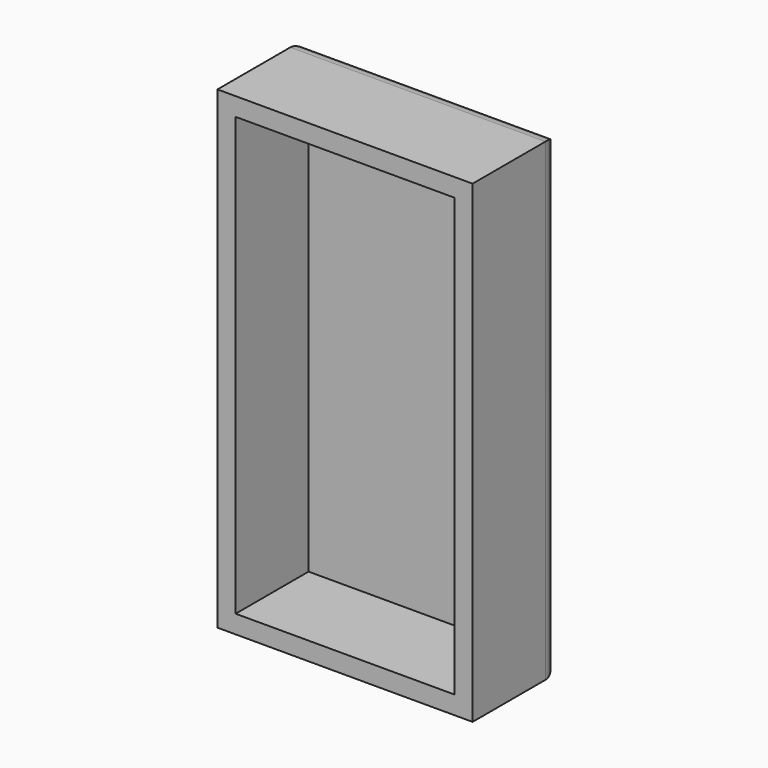
from build123d import *

# Parameters (mm, degrees)
F0_W     = 35
F0_H     = 65
F1_DEPTH = 15
F2_T     = -2.5
F3_R     = 2.5


with BuildPart() as f1:
    # F0 (on Front) → F1 (new body)
    with BuildSketch(Plane.XZ):
        with Locations((17.5, 32.5)):
            Rectangle(F0_W, F0_H)
    extrude(amount=F1_DEPTH)

    # F2
    f2_openings = [f1.faces().sort_by_distance(p)[0] for p in [
        (17.5, -15, 32.5),
    ]]
    offset(amount=F2_T, openings=f2_openings)

    # F3
    f3_edges = [f1.edges().sort_by_distance(p)[0] for p in [
        (0, 0, 32.5),
        (17.5, 0, 0),
        (35, 0, 32.5),
        (17.5, 0, 65),
    ]]
    fillet(f3_edges, radius=F3_R)


solid = f1.part
